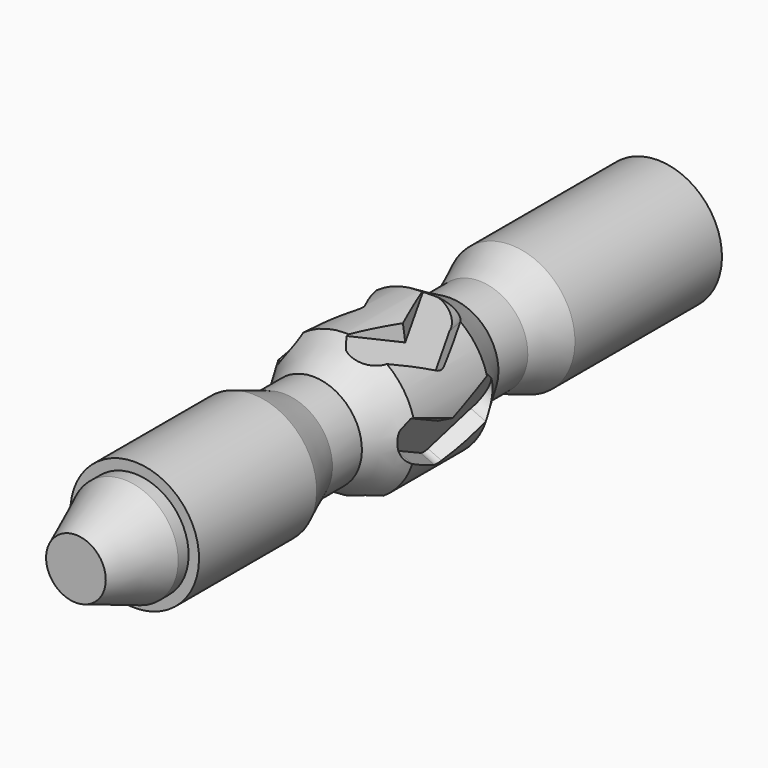
from build123d import *

# Parameters (mm, degrees)
F5_DEPTH      = 10.16
F5_DEPTH_BACK = 20.32
F6_COUNT      = 5
F10_DEPTH     = 78.232
F11_COUNT     = 5
F14_R         = 12.7
F15_W         = 50.8
F15_H         = 67.31
F15_W_2       = 254
F15_H_2       = 88.9


with BuildPart() as f4:
    # F0 (on Right) → F4 (revolve)
    with BuildSketch(Plane.YZ):
        Polygon((-54.483, 0), (0, 0), (63.5, 0), (63.5, 98.425), (0, 98.425), (-54.483, 67.31), align=None)
    revolve(axis=Axis((0, 31.75, 0), (0, 1, 0)))


with BuildPart() as f5:
    # F3 (on line) → F5 (new body, two sides)
    with BuildSketch(Plane(origin=(-42.6192751837, 0, 73.81875), x_dir=(0.8660254038, 0, 0.5), z_dir=(-0.5, 0, 0.8660254038))) as f5_sk:
        with BuildLine():
            Line((-16.0566493823, 76.2620103981), (-56.3213180247, 6.5215585596))
            Line((-56.3213180247, 6.5215585596), (-61.3727275241, -2.2277393432))
            ThreePointArc((-61.3727275241, -2.2277393432), (-34.8007425743, -18.7801582014), (-9.7536147518, 0))
            Line((-9.7536147518, 0), (34.2762774804, 76.2620103981))
            Line((34.2762774804, 76.2620103981), (-16.0566493823, 76.2620103981))
        make_face()
    extrude(amount=-F5_DEPTH)
    extrude(f5_sk.sketch, amount=F5_DEPTH_BACK)


with BuildPart() as f6_1:
    # F6: instance of F5
    add(f5.part.rotate(Axis((0, 0, 0), (0, -1, 0)), 1 * 360 / F6_COUNT))


with BuildPart() as f6_2:
    # F6: instance of F5
    add(f5.part.rotate(Axis((0, 0, 0), (0, -1, 0)), 2 * 360 / F6_COUNT))


with BuildPart() as f6_3:
    # F6: instance of F5
    add(f5.part.rotate(Axis((0, 0, 0), (0, -1, 0)), 3 * 360 / F6_COUNT))


with BuildPart() as f6_4:
    # F6: instance of F5
    add(f5.part.rotate(Axis((0, 0, 0), (0, -1, 0)), 4 * 360 / F6_COUNT))


with BuildPart() as f4_1:
    add(f4.part)

    # F7: cut F5, F6_4, F6_3, F6_1, F6_2
    add(f5.part, mode=Mode.SUBTRACT)
    add(f6_4.part, mode=Mode.SUBTRACT)
    add(f6_3.part, mode=Mode.SUBTRACT)
    add(f6_1.part, mode=Mode.SUBTRACT)
    add(f6_2.part, mode=Mode.SUBTRACT)


with BuildPart() as f10:
    # F9 (on face) → F10 (new body)
    with BuildSketch(Plane(origin=(16.0817333094, 37.4817642681, -14.4800577111), x_dir=(-0.9284039757, 0.346606819, -0.1339020945), z_dir=(0.3715724127, 0.8660254038, -0.3345653032))):
        with BuildLine():
            Line((-37.744679749, 99.999079315), (-18.068144341, 89.520496362))
            Line((-18.068144341, 89.520496362), (-18.0706486339, 89.6491709336))
            Line((-18.0706486339, 89.6491709336), (-18.0706486339, 111.8132472038))
            ThreePointArc((-18.0706486339, 111.8132472038), (-29.5446329858, 108.6321931666), (-37.744679749, 99.999079315))
        make_face()
    extrude(amount=-F10_DEPTH)


with BuildPart() as f11_1:
    # F11: instance of F10
    add(f10.part.rotate(Axis((0, 63.5, 0), (0, -1, 0)), 1 * 360 / F11_COUNT))


with BuildPart() as f11_2:
    # F11: instance of F10
    add(f10.part.rotate(Axis((0, 63.5, 0), (0, -1, 0)), 2 * 360 / F11_COUNT))


with BuildPart() as f11_3:
    # F11: instance of F10
    add(f10.part.rotate(Axis((0, 63.5, 0), (0, -1, 0)), 3 * 360 / F11_COUNT))


with BuildPart() as f11_4:
    # F11: instance of F10
    add(f10.part.rotate(Axis((0, 63.5, 0), (0, -1, 0)), 4 * 360 / F11_COUNT))


with BuildPart() as f4_2:
    add(f4_1.part)

    # F12: cut F10, F11_1, F11_2, F11_3, F11_4
    add(f10.part, mode=Mode.SUBTRACT)
    add(f11_1.part, mode=Mode.SUBTRACT)
    add(f11_2.part, mode=Mode.SUBTRACT)
    add(f11_3.part, mode=Mode.SUBTRACT)
    add(f11_4.part, mode=Mode.SUBTRACT)

    # F13: F4 across face


with BuildPart() as f4_3:
    add(f4_2.part)
    add(f4_2.part.mirror(Plane(origin=(0, 63.5, 0), x_dir=(-1, 0, 0), z_dir=(0, 1, 0))))

    # F14
    f14_edges = [f4_3.edges().sort_by_distance(p)[0] for p in [
        (66.594458, 63.5, -59.104376),
        (-35.632782, 63.5, -81.59935),
        (-88.616729, 63.5, 8.673204),
        (-19.135368, 63.5, 86.959685),
        (76.790421, 63.5, 45.070837),
    ]]
    fillet(f14_edges, radius=F14_R)

    # F15 (on Right) → F16 (revolve)
    with BuildSketch(Plane.YZ):
        Polygon((-54.483, 0), (0, 0), (181.483, 0), (181.483, 67.31), (-54.483, 67.31), align=None)
        with Locations((-79.883, 33.655)):
            Rectangle(F15_W, F15_H)
        with Locations((206.883, 33.655)):
            Rectangle(F15_W, F15_H)
        Polygon((-159.766, 0), (-105.283, 0), (-105.283, 67.31), (-159.766, 88.9), align=None)
        Polygon((232.283, 67.31), (232.283, 0), (286.766, 0), (286.766, 88.9), align=None)
        Polygon((-362.966, 0), (-159.766, 0), (-159.766, 88.9), (-362.966, 88.9), (-362.966, 74.5474398136), align=None)
        with Locations((413.766, 44.45)):
            Rectangle(F15_W_2, F15_H_2)
        Polygon((-464.566, 0), (-362.966, 0), (-362.966, 74.5474398136), (-381.0322582722, 74.5474398136), (-464.566, 41.275), align=None)
    revolve(axis=Axis((0, -261.366, 0), (0, -1, 0)))


solid = f4_3.part
